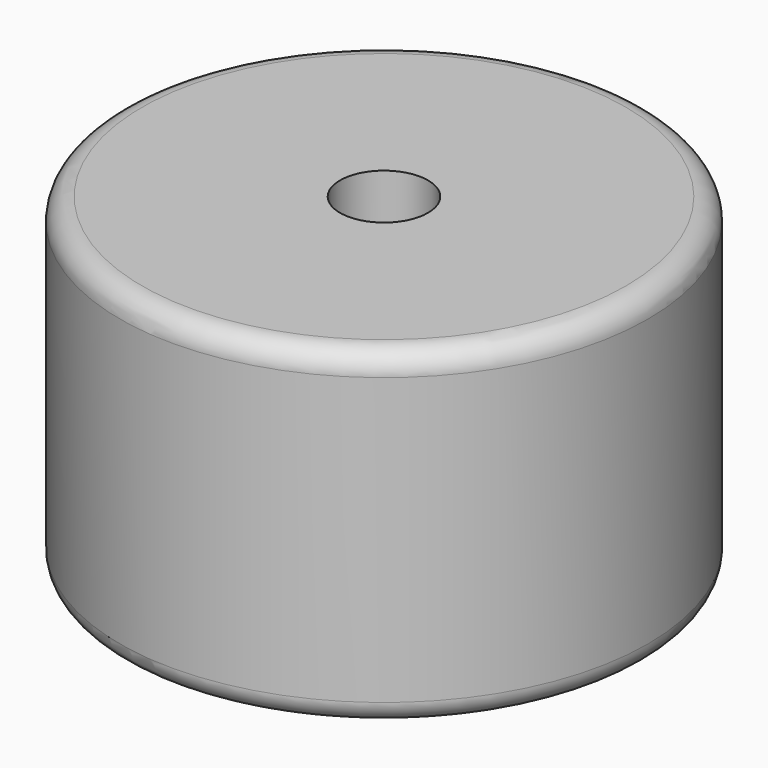
from build123d import *

# Parameters (mm, degrees)
F0_W = 50
F0_H = 75
F2_R = 5


with BuildPart() as f1:
    # F0 (on Front) → F1 (revolve)
    with BuildSketch(Plane.XZ):
        with Locations((35, 0)):
            Rectangle(F0_W, F0_H)
    revolve(axis=Axis((0, 0, 6.589413), (0, 0, -1)))

    # F2
    f2_edges = [f1.edges().sort_by_distance(p)[0] for p in [
        (-60, 0, 37.5),
        (-60, 0, -37.5),
    ]]
    fillet(f2_edges, radius=F2_R)


solid = f1.part
